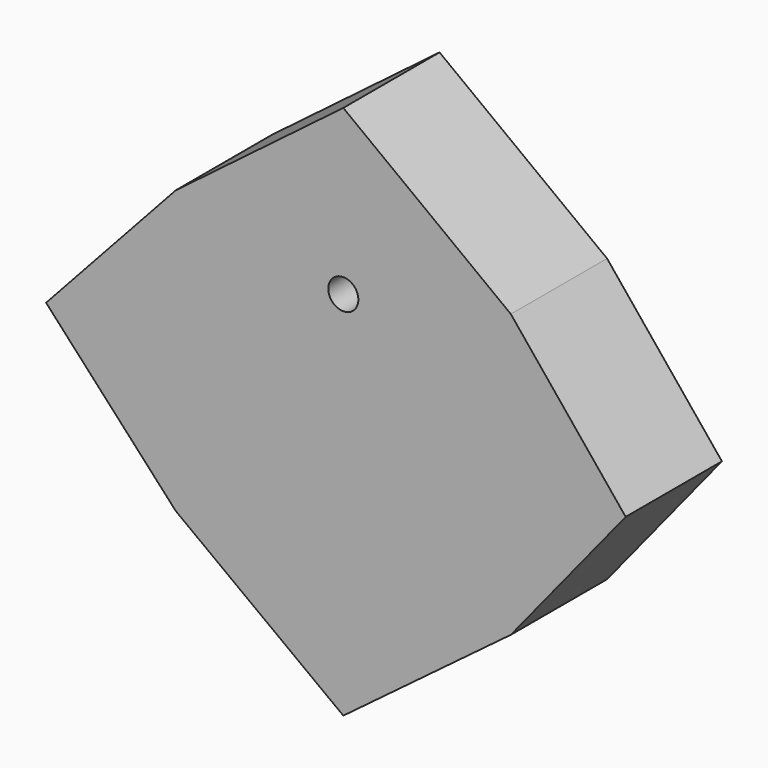
from build123d import *

# Parameters (mm, degrees)
F0_W     = 70.7396790385
F0_H     = 59.6152953804
F1_DEPTH = 25.4
F2_R     = 16.4409735045
F3_DEPTH = 25.4
F5_D     = 6.35


with BuildPart() as f1:
    # F0 (on Front) → F1 (new body)
    with BuildSketch(Plane.XZ):
        Polygon((0, 56.6202700138), (-35.3698395193, 29.8076476902), (35.3698395193, 29.8076476902), align=None)
        Rectangle(F0_W, F0_H)
        Polygon((-35.3698395193, -29.8076476902), (-35.3698395193, 29.8076476902), (-62.7529397607, 0), align=None)
        Polygon((59.6152916551, 0), (35.3698395193, 29.8076476902), (35.3698395193, -29.8076476902), align=None)
        Polygon((35.3698395193, -29.8076476902), (-35.3698395193, -29.8076476902), (0, -56.3350282609), align=None)
    extrude(amount=F1_DEPTH)

    # F2 (on Front) → F3 (join)
    with BuildSketch(Plane.XZ):
        Circle(F2_R)
    extrude(amount=F3_DEPTH)

    # F5 (through all)
    with Locations(Plane(origin=(0, 0, 0), x_dir=(1, 0, 0), z_dir=(0, 1, 0))):
        with Locations((0, -22.0009903873)):
            Hole(F5_D / 2)


solid = f1.part
